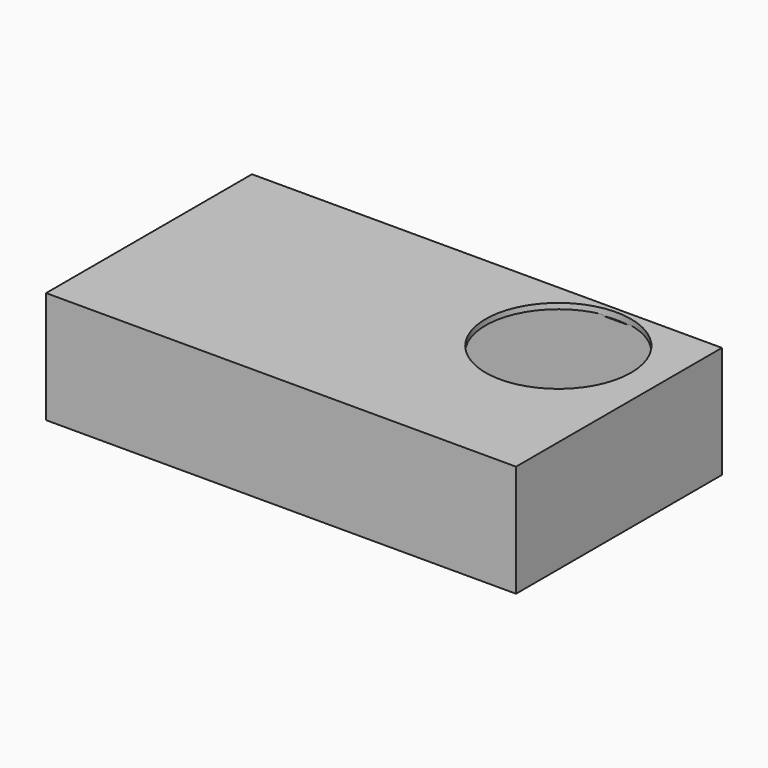
from build123d import *

# Parameters (mm, degrees)
F0_W     = 210
F0_H     = 115
F1_DEPTH = 50
F3_T     = -2.5
F2_R     = 32.5
F4_DEPTH = 3
F6_D     = 3.4
F6_DEPTH = 4
F6_TIP   = 1.0214630523


with BuildPart() as f1:
    # F0 (on Top) → F1 (new body)
    with BuildSketch(Plane.XY):
        with Locations((-10.1612838779, 0)):
            Rectangle(F0_W, F0_H)
    extrude(amount=F1_DEPTH)

    # F3 (hollow: no face is removed)
    offset(amount=F3_T, mode=Mode.SUBTRACT)

    # F2 (on face) → F4 (cut)
    with BuildSketch(Plane.XY.offset(50)):
        with Locations((49.3387161221, 23)):
            Circle(F2_R)
    extrude(amount=-F4_DEPTH, mode=Mode.SUBTRACT)

    # F6
    with Locations(Plane(origin=(0, 0, 0), x_dir=(1, 0, 0), z_dir=(0, 0, -1))):
        with Locations((-87.6612838779, 47.5), (89.8387161221, 47.5), (89.8387161221, -47.5), (-87.6612838779, -47.5)):
            Hole(F6_D / 2, depth=F6_DEPTH)
            with Locations((0, 0, -(F6_DEPTH + F6_TIP / 2))):  # 118° drill point
                Cone(0, F6_D / 2, F6_TIP, mode=Mode.SUBTRACT)


solid = f1.part
